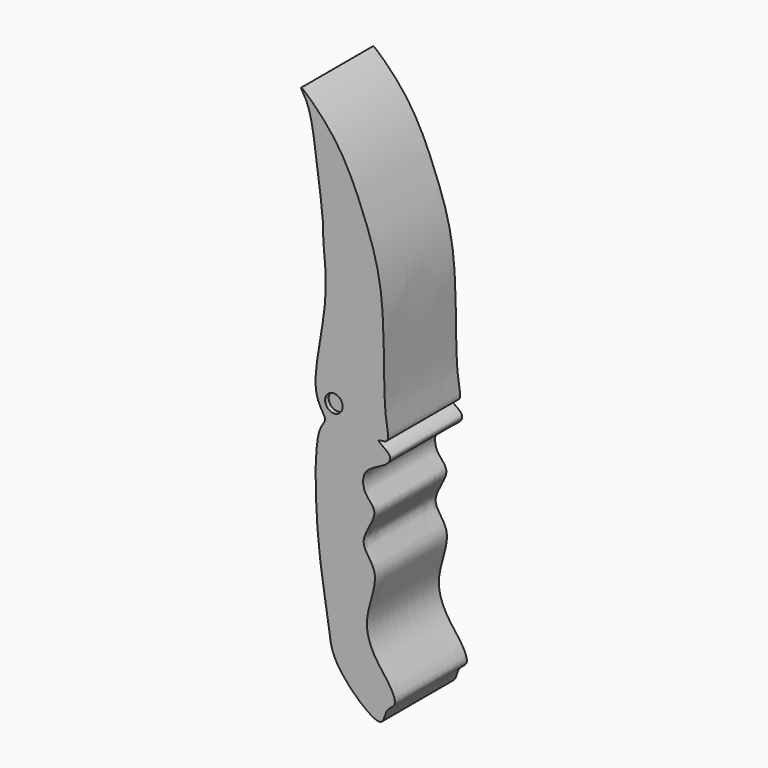
from build123d import *

# Parameters (mm, degrees)
F1_DEPTH = 2
F2_R     = 0.1960500861
F3_DEPTH = 0.1


with BuildPart() as f1:
    # F0 (on Front) → F1 (new body)
    with BuildSketch(Plane.XZ):
        with BuildLine():
            add(Edge.make_bspline(
                [(-6.3013635024, 14.5856069156), (-6.31729942, 14.5809037539), (-6.0865109677, 14.2841273026), (-5.9738540926, 13.2840700372), (-5.8009353765, 12.1679084614), (-5.8306536721, 11.7178799293), (-5.646202448, 10.5399049705), (-6.1706125336, 8.7266620502), (-5.6801026536, 8.2602035969), (-6.0357128862, 8.0320589054), (-5.970879944, 5.6797168325), (-5.6667125045, 4.2933655803), (-5.6415123773, 3.5239690831), (-4.4577612543, 2.4710322236), (-4.4506340127, 3.0578831206), (-4.1467406228, 3.1572662291), (-4.3275025949, 3.5529479821), (-4.629776267, 3.8899008227), (-5.0037496862, 4.6062543262), (-4.4563640747, 5.6557531794), (-5.1275236348, 6.112003077), (-4.502519212, 6.8100271446), (-4.9364260741, 7.0754908606), (-4.9534046443, 7.5944455397), (-4.4740144316, 7.7471000126), (-4.2048728121, 8.0279005907), (-4.7299488504, 8.2750597148), (-4.2938164201, 8.2335040282), (-4.5142435025, 8.8222712464), (-4.3865935765, 11.1247335821), (-4.9118327408, 12.5840662552), (-5.4678506094, 13.872359743), (-6.2715213827, 14.5944142099), (-6.3013635024, 14.5856069156)],
                knots=[0, 0, 0, 0, 0.0191683224, 0.0587477868, 0.0986720484, 0.1234517983, 0.1645130247, 0.2160491497, 0.241690284, 0.2608130578, 0.3176547403, 0.3640358062, 0.3978643249, 0.4389176791, 0.4595995097, 0.4783037255, 0.500137198, 0.5262696368, 0.5589428519, 0.5972201784, 0.6258417837, 0.6568586585, 0.6801993696, 0.7043148202, 0.7304792729, 0.7499269454, 0.7715200335, 0.7871571655, 0.8119581532, 0.8695312507, 0.9175280694, 0.9641047732, 1, 1, 1, 1], degree=3))
        make_face()
    extrude(amount=F1_DEPTH)

    # F2 (on face) → F3 (cut)
    with BuildSketch(Plane.XZ.offset(2)):
        with Locations((-5.5754729547, 8.64305906)):
            Circle(F2_R)
    extrude(amount=-F3_DEPTH, mode=Mode.SUBTRACT)


solid = f1.part
